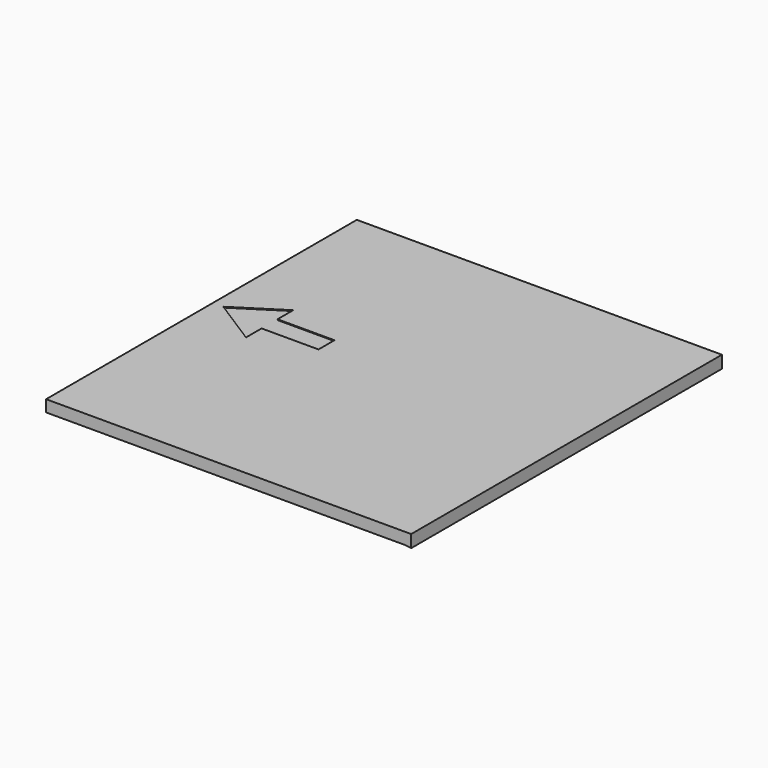
from build123d import *

# Parameters (mm, degrees)
PAD_DEPTH       = 16
POCKET_DEPTH    = 1
POCKET001_DEPTH = 1


with BuildPart() as part:
    # Sketch → Pad (new body)
    with BuildSketch(Plane.XY):
        Polygon((0, 413.879036), (0, 500), (470, 500), (470, 0), (0, 0), align=None)
    extrude(amount=-PAD_DEPTH)

    # Sketch002 (on Face7 of Pad) → Pocket (cut)
    with BuildSketch(Plane(origin=(0, 0, -16), x_dir=(1, 0, 0), z_dir=(0, 0, -1))):
        Polygon((0, 0), (0, -71.973152), (470, 0), align=None)
    extrude(amount=-POCKET_DEPTH, mode=Mode.SUBTRACT)

    # Sketch003 (on Face4 of Pocket) → Pocket001 (cut)
    with BuildSketch(Plane.XY):
        Polygon((72.935243, 306.382776), (13.373917, 268.440454), (72.935243, 230.498132), (72.935243, 255.613788), (146.197296, 255.613788), (146.197296, 281.26712), (72.935243, 281.26712), align=None)
    extrude(amount=-POCKET001_DEPTH, mode=Mode.SUBTRACT)


solid = part.part
